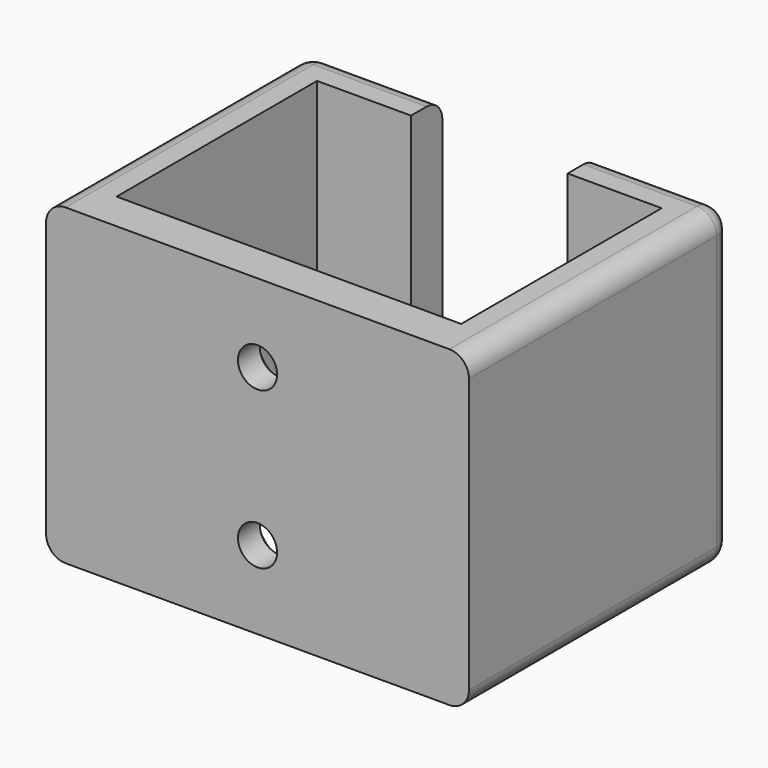
from build123d import *

# Parameters (mm, degrees)
SKETCH_W        = 54
SKETCH_H        = 42
SKETCH_W_2      = 44
SKETCH_H_2      = 32
PAD_DEPTH       = 40
SKETCH001_W     = 20
SKETCH001_H     = 5
POCKET_DEPTH    = 40
SKETCH002_R     = 2.5
POCKET001_DEPTH = 42.001
CHAMFER_SIZE    = 1.5
FILLET_R        = 2.5
SKETCH003_R     = 2.5
POCKET002_DEPTH = 42.001
CHAMFER001_SIZE = 1.5
FILLET001_R     = 1.5


with BuildPart() as part:
    # Sketch → Pad (new body)
    with BuildSketch(Plane.XY):
        Rectangle(SKETCH_W, SKETCH_H)
        Rectangle(SKETCH_W_2, SKETCH_H_2, mode=Mode.SUBTRACT)
    extrude(amount=PAD_DEPTH)

    # Sketch001 (on Face10 of Pad) → Pocket (cut)
    with BuildSketch(Plane.XY.offset(40)):
        with Locations((0, 18.5)):
            Rectangle(SKETCH001_W, SKETCH001_H)
    extrude(amount=-POCKET_DEPTH, mode=Mode.SUBTRACT)

    # Sketch002 (on Face14 of Pocket) → Pocket001 (cut, through all)
    with BuildSketch(Plane.XZ.offset(21)):
        with Locations((0, 10)):
            Circle(SKETCH002_R)
    extrude(amount=-POCKET001_DEPTH, mode=Mode.SUBTRACT)

    # Chamfer
    chamfer_edges = [part.edges().sort_by_distance(p)[0] for p in [
        (-2.5, -16, 10),
    ]]
    chamfer(chamfer_edges, length=CHAMFER_SIZE)

    # Fillet
    fillet_edges = [part.edges().sort_by_distance(p)[0] for p in [
        (27, 21, 20),
        (27, 0, 40),
        (-27, 0, 40),
        (-27, 21, 20),
        (-27, 0, 0),
        (27, 0, 0),
        (18.5, 21, 40),
        (-18.5, 21, 40),
        (-18.5, 21, 0),
        (18.5, 21, 0),
    ]]
    fillet(fillet_edges, radius=FILLET_R)

    # Sketch003 (on Face7 of Fillet) → Pocket002 (cut, through all)
    with BuildSketch(Plane.XZ.offset(21)):
        with Locations((0, 30)):
            Circle(SKETCH003_R)
    extrude(amount=-POCKET002_DEPTH, mode=Mode.SUBTRACT)

    # Chamfer001
    chamfer001_edges = [part.edges().sort_by_distance(p)[0] for p in [
        (-2.5, -16, 30),
    ]]
    chamfer(chamfer001_edges, length=CHAMFER001_SIZE)

    # Fillet001
    fillet001_edges = [part.edges().sort_by_distance(p)[0] for p in [
        (-22, 0, 0),
        (0, -16, 0),
        (22, 0, 0),
        (16, 16, 0),
        (-16, 16, 0),
    ]]
    fillet(fillet001_edges, radius=FILLET001_R)


solid = part.part
